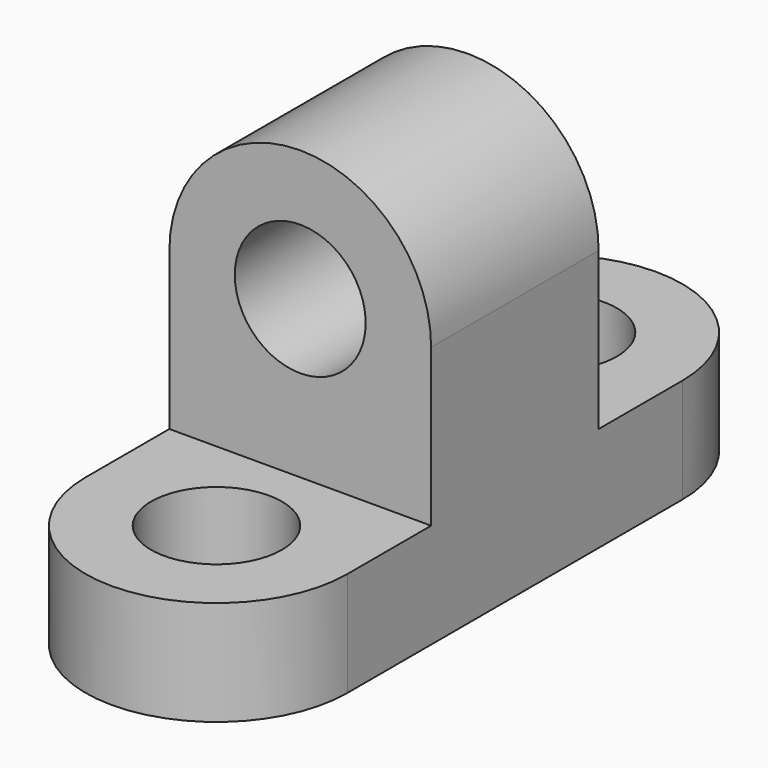
from build123d import *

# Parameters (mm, degrees)
F1_DEPTH = 40
F2_W     = 50
F2_H     = 40
F3_DEPTH = 20


with BuildPart() as f1:
    # F0 (on Front) → F1 (new body)
    with BuildSketch(Plane.XZ):
        with BuildLine():
            Line((25, 0), (25, 50))
            Line((25, 50), (12.5, 50))
            ThreePointArc((12.5, 50), (0, 37.5), (-12.5, 50))
            Line((-12.5, 50), (-25, 50))
            Line((-25, 50), (-25, 0))
            Line((-25, 0), (25, 0))
        make_face()
        with BuildLine():
            Line((12.5, 50), (25, 50))
            ThreePointArc((25, 50), (0, 75), (-25, 50))
            Line((-25, 50), (-12.5, 50))
            ThreePointArc((-12.5, 50), (0, 62.5), (12.5, 50))
        make_face()
    extrude(amount=F1_DEPTH)

    # F2 (on Top) → F3 (join)
    with BuildSketch(Plane.XY):
        with BuildLine():
            Line((-25, 20), (-25, 0))
            Line((-25, 0), (25, 0))
            Line((25, 0), (25, 20))
            Line((25, 20), (12.5, 20))
            ThreePointArc((12.5, 20), (0, 7.5), (-12.5, 20))
            Line((-12.5, 20), (-25, 20))
        make_face()
        with Locations((0, -20)):
            Rectangle(F2_W, F2_H)
        with BuildLine():
            ThreePointArc((25, 20), (0, 45), (-25, 20))
            Line((-25, 20), (-12.5, 20))
            ThreePointArc((-12.5, 20), (0, 32.5), (12.5, 20))
            Line((12.5, 20), (25, 20))
        make_face()
        with BuildLine():
            Line((25, -40), (-25, -40))
            Line((-25, -40), (-25, -60))
            Line((-25, -60), (-12.5, -60))
            ThreePointArc((-12.5, -60), (0, -47.5), (12.5, -60))
            Line((12.5, -60), (25, -60))
            Line((25, -60), (25, -40))
        make_face()
        with BuildLine():
            Line((-12.5, -60), (-25, -60))
            ThreePointArc((-25, -60), (0, -85), (25, -60))
            Line((25, -60), (12.5, -60))
            ThreePointArc((12.5, -60), (0, -72.5), (-12.5, -60))
        make_face()
    extrude(amount=F3_DEPTH)


solid = f1.part
